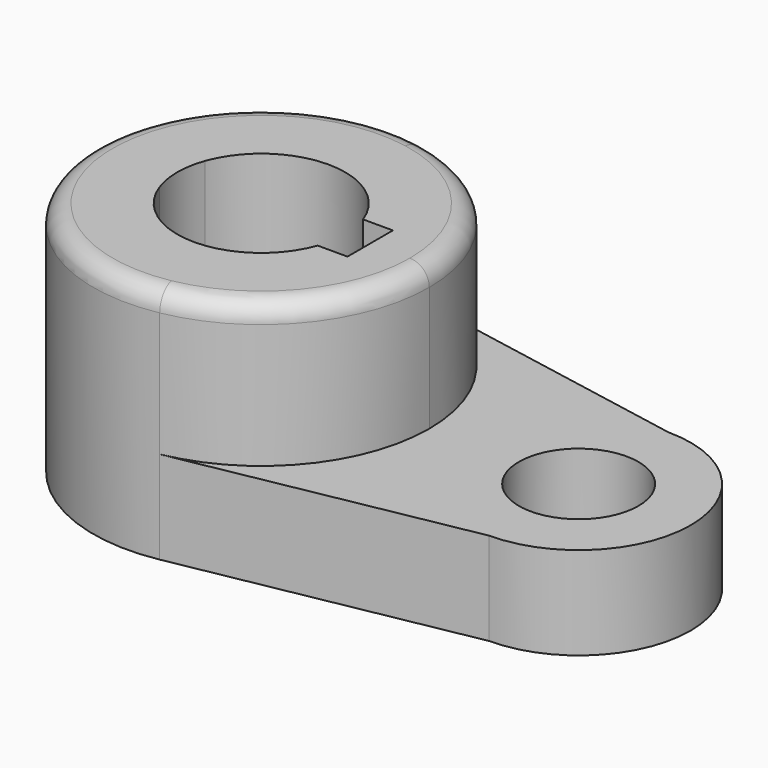
from build123d import *

# Parameters (mm, degrees)
F1_DEPTH = 40.2336
F0_R     = 10.16
F2_DEPTH = 15.7734
F3_R     = 3.302


with BuildPart() as f1:
    # F0 (on Top) → F1 (new body)
    with BuildSketch(Plane.XY):
        with BuildLine():
            ThreePointArc((5.211817, -28.095686), (21.971098, -18.270235), (28.575, 0))
            ThreePointArc((28.575, 0), (21.971098, 18.270235), (5.211817, 28.095686))
            ThreePointArc((5.211817, 28.095686), (-28.575, 0), (5.211817, -28.095686))
        make_face()
        with BuildLine():
            ThreePointArc((-13.447765, 4.826), (0, 14.2875), (13.447765, 4.826))
            Line((13.447765, 4.826), (18.5293, 4.826))
            Line((18.5293, 4.826), (18.5293, -4.826))
            Line((18.5293, -4.826), (13.447765, -4.826))
            ThreePointArc((13.447765, -4.826), (0, -14.2875), (-13.447765, -4.826))
            Line((-13.447765, -4.826), (-18.5293, -4.826))
            Line((-18.5293, -4.826), (-18.5293, 4.826))
            Line((-18.5293, 4.826), (-13.447765, 4.826))
        make_face(mode=Mode.SUBTRACT)
        with BuildLine():
            ThreePointArc((-13.447765, -4.826), (-14.2875, 0), (-13.447765, 4.826))
            Line((-13.447765, 4.826), (-18.5293, 4.826))
            Line((-18.5293, 4.826), (-18.5293, -4.826))
            Line((-18.5293, -4.826), (-13.447765, -4.826))
        make_face()
    extrude(amount=F1_DEPTH)

    # F0 (on Top) → F2 (join)
    with BuildSketch(Plane.XY):
        with BuildLine():
            ThreePointArc((5.211817, -28.095686), (21.971098, -18.270235), (28.575, 0))
            ThreePointArc((28.575, 0), (21.971098, 18.270235), (5.211817, 28.095686))
            ThreePointArc((5.211817, 28.095686), (-28.575, 0), (5.211817, -28.095686))
        make_face()
        with BuildLine():
            ThreePointArc((-13.447765, 4.826), (0, 14.2875), (13.447765, 4.826))
            Line((13.447765, 4.826), (18.5293, 4.826))
            Line((18.5293, 4.826), (18.5293, -4.826))
            Line((18.5293, -4.826), (13.447765, -4.826))
            ThreePointArc((13.447765, -4.826), (0, -14.2875), (-13.447765, -4.826))
            Line((-13.447765, -4.826), (-18.5293, -4.826))
            Line((-18.5293, -4.826), (-18.5293, 4.826))
            Line((-18.5293, 4.826), (-13.447765, 4.826))
        make_face(mode=Mode.SUBTRACT)
        with BuildLine():
            ThreePointArc((5.211817, 28.095686), (21.971098, 18.270235), (28.575, 0))
            ThreePointArc((28.575, 0), (21.971098, -18.270235), (5.211817, -28.095686))
            Line((5.211817, -28.095686), (53.975, -19.05))
            ThreePointArc((53.975, -19.05), (73.025, 0), (53.975, 19.05))
            Line((53.975, 19.05), (5.211817, 28.095686))
        make_face()
        with Locations((53.975, 0)):
            Circle(F0_R, mode=Mode.SUBTRACT)
    extrude(amount=F2_DEPTH)

    # F3
    f3_edges = [f1.edges().sort_by_distance(p)[0] for p in [
        (-5.211817, 28.095686, 40.2336),
    ]]
    fillet(f3_edges, radius=F3_R)


solid = f1.part
